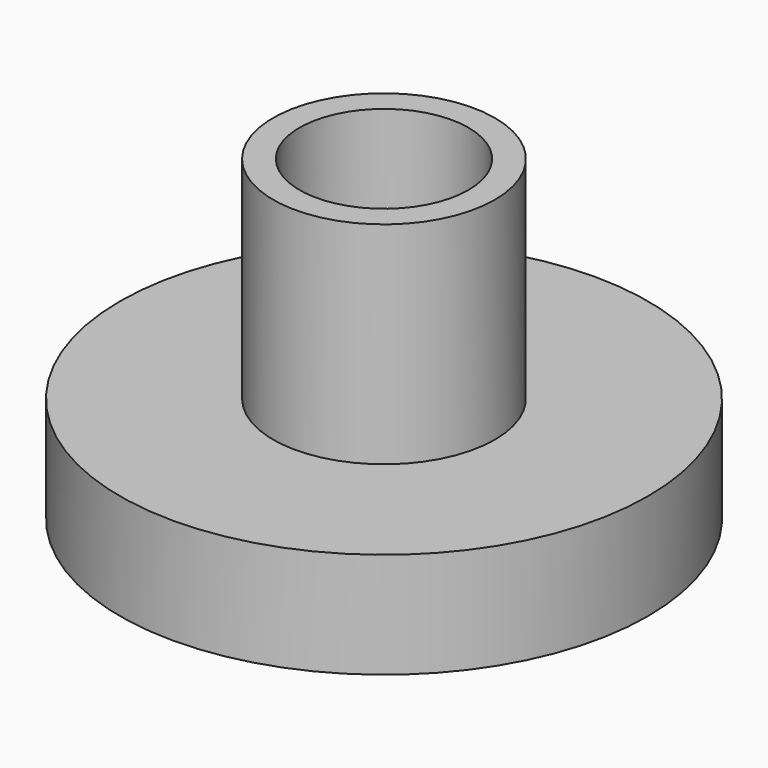
from build123d import *

# Parameters (mm, degrees)
F0_R        = 13.335
F0_R_2      = 10.16
F1_DEPTH    = 25.4
F0_R_3      = 31.75
F2_DEPTH    = 12.7
F1_FACE_R   = 13.335
F1_FACE_R_2 = 10.16
F3_DEPTH    = 12.7


with BuildPart() as f1:
    # F0 (on Top) → F1 (new body)
    with BuildSketch(Plane.XY):
        Circle(F0_R)
        Circle(F0_R_2, mode=Mode.SUBTRACT)
    extrude(amount=F1_DEPTH)


with BuildPart() as f2:
    # F0 (on Top) → F2 (new body)
    with BuildSketch(Plane.XY):
        Circle(F0_R_3)
        Circle(F0_R, mode=Mode.SUBTRACT)
    extrude(amount=-F2_DEPTH)


with BuildPart() as f3:
    # F1_face (on face) → F3 (new body, through all)
    with BuildSketch(Plane(origin=(0, 0, 0), x_dir=(1, 0, 0), z_dir=(0, 0, -1))):
        Circle(F1_FACE_R)
        Circle(F1_FACE_R_2, mode=Mode.SUBTRACT)
    extrude(amount=F3_DEPTH)


solid = Compound([f1.part, f2.part, f3.part])
